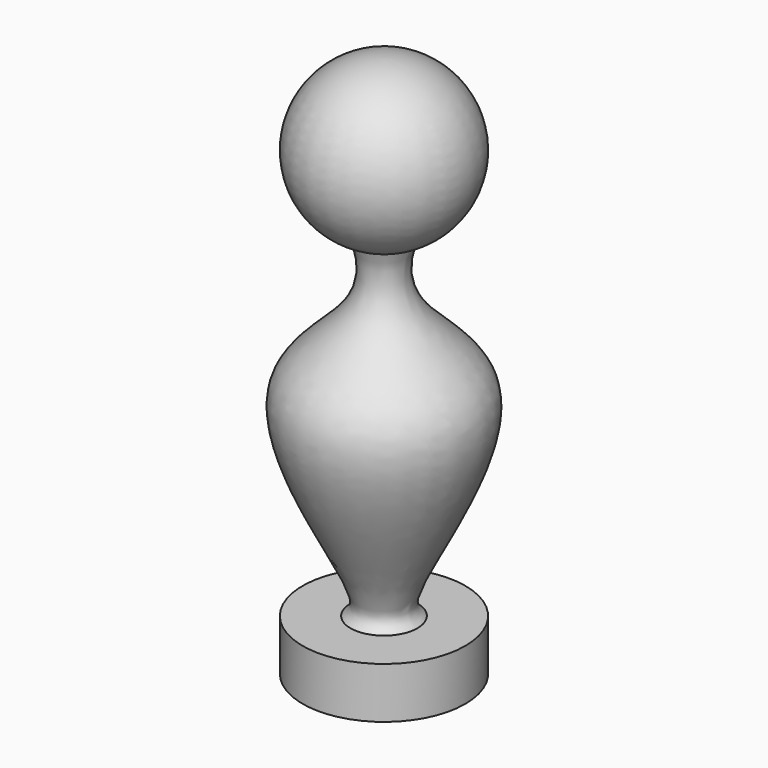
from build123d import *


with BuildPart() as f1:
    # F0 (on Front) → F1 (revolve)
    with BuildSketch(Plane.XZ):
        with BuildLine():
            Line((0, 25.4), (0, 0))
            Line((0, 0), (3.81, 0))
            add(Edge.make_bspline(
                [(1.5686286913, 2.3910187408), (1.9885761192, 2.0303137609), (2.7807060762, 1.5376676162), (3.81, 0)],
                knots=[0.8422244388, 0.8422244388, 0.8422244388, 0.8422244388, 1, 1, 1, 1], degree=3))
            add(Edge.make_bspline(
                [(1.27, 17.9978976232), (0, 14.8154656209), (7.7245770908, 13.2148158432), (0.7516867992, 3.4974396809), (1.2837094687, 2.6357440937), (1.5686286913, 2.3910187408)],
                knots=[0, 0, 0, 0, 0.3408944302, 0.7351793963, 0.8422244388, 0.8422244388, 0.8422244388, 0.8422244388], degree=3))
            ThreePointArc((1.27, 17.9978976232), (3.7551303086, 22.234278545), (0, 25.4))
        make_face()
        with BuildLine():
            add(Edge.make_bspline(
                [(1.5686286913, 2.3910187408), (1.9885761192, 2.0303137609), (2.7807060762, 1.5376676162), (3.81, 0)],
                knots=[0.8422244388, 0.8422244388, 0.8422244388, 0.8422244388, 1, 1, 1, 1], degree=3))
            Line((3.81, 0), (3.81, 2.3910187408))
            Line((3.81, 2.3910187408), (1.5686286913, 2.3910187408))
        make_face()
    revolve(axis=Axis((0, 0, 12.7), (0, 0, 1)))


solid = f1.part
